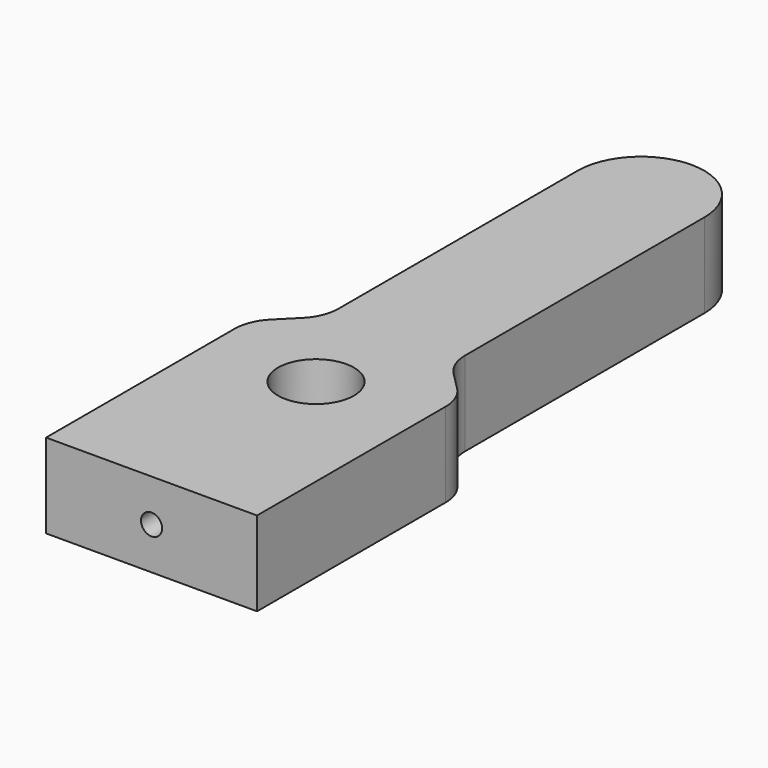
from build123d import *

# Parameters (mm, degrees)
F1_DEPTH = 6.35
F2_R     = 1.5875
F3_DEPTH = 12.7


with BuildPart() as f1:
    # F0 (on Top) → F1 (new body, symmetric)
    with BuildSketch(Plane.XY):
        with BuildLine():
            ThreePointArc((5.715, 0), (-4.041115, 4.041115), (0, -5.715))
            ThreePointArc((0, -5.715), (4.041115, -4.041115), (5.715, 0))
        make_face()
        with BuildLine():
            Line((-15.875, 4.536874), (-15.875, -30.93287))
            Line((-15.875, -30.93287), (0, -30.93287))
            Line((0, -30.93287), (15.875, -30.93287))
            Line((15.875, -30.93287), (15.875, 4.536874))
            ThreePointArc((15.875, 4.536874), (15.391635, 6.966914), (14.015128, 9.027002))
            Line((14.015128, 9.027002), (11.384872, 11.657258))
            ThreePointArc((11.384872, 11.657258), (10.008365, 13.717346), (9.525, 16.147386))
            Line((9.525, 16.147386), (9.525, 61.14213))
            ThreePointArc((9.525, 61.14213), (6.735192, 67.877322), (0, 70.66713))
            ThreePointArc((0, 70.66713), (-6.735192, 67.877322), (-9.525, 61.14213))
            Line((-9.525, 61.14213), (-9.525, 16.147386))
            ThreePointArc((-9.525, 16.147386), (-10.008365, 13.717346), (-11.384872, 11.657258))
            Line((-11.384872, 11.657258), (-14.015128, 9.027002))
            ThreePointArc((-14.015128, 9.027002), (-15.391635, 6.966914), (-15.875, 4.536874))
        make_face()
        with BuildLine():
            ThreePointArc((5.715, 0), (4.041115, -4.041115), (0, -5.715))
            ThreePointArc((0, -5.715), (-4.041115, 4.041115), (5.715, 0))
        make_face(mode=Mode.SUBTRACT)
    extrude(amount=F1_DEPTH, both=True)

    # F2 (on face) → F3 (cut)
    with BuildSketch(Plane.XZ.offset(30.93287)):
        Circle(F2_R)
    extrude(amount=-F3_DEPTH, mode=Mode.SUBTRACT)


solid = f1.part
